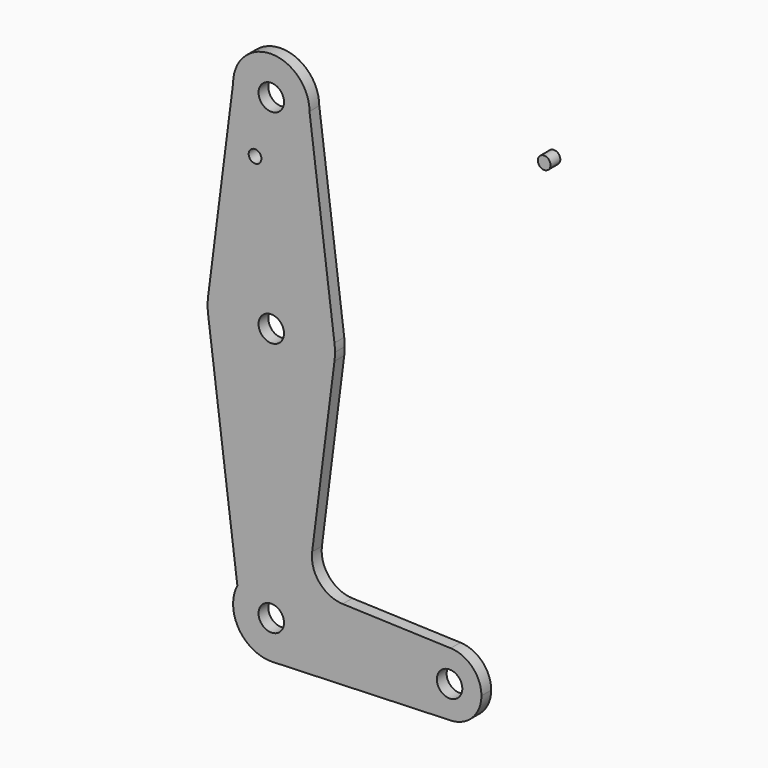
from build123d import *

# Parameters (mm, degrees)
F0_R     = 3.175
F0_R_2   = 1.5875
F1_DEPTH = 3.048


with BuildPart() as f1:
    # F0 (on Front) → F1 (new body)
    with BuildSketch(Plane.XZ):
        with BuildLine():
            ThreePointArc((-9.525, 114.3), (0, 104.775), (9.525, 114.3))
            ThreePointArc((9.525, 114.3), (0, 123.825), (-9.525, 114.3))
        make_face()
        with Locations((0, 114.3)):
            Circle(F0_R, mode=Mode.SUBTRACT)
        with BuildLine():
            Line((15.747457, 65.508289), (9.525, 114.3))
            ThreePointArc((9.525, 114.3), (0, 104.775), (-9.525, 114.3))
            Line((-9.525, 114.3), (-15.747457, 65.508289))
            ThreePointArc((-15.747457, 65.508289), (0, 79.375), (15.747457, 65.508289))
        make_face()
        with Locations((-4.054705, 100.0252)):
            Circle(F0_R_2, mode=Mode.SUBTRACT)
        with BuildLine():
            ThreePointArc((15.875, 63.5), (15.843082, 64.506168), (15.747457, 65.508289))
            ThreePointArc((15.747457, 65.508289), (0, 79.375), (-15.747457, 65.508289))
            ThreePointArc((-15.747457, 65.508289), (-15.875, 63.5), (-15.747457, 61.491711))
            ThreePointArc((-15.747457, 61.491711), (0, 47.625), (15.747457, 61.491711))
            ThreePointArc((15.747457, 61.491711), (15.843082, 62.493832), (15.875, 63.5))
        make_face()
        with Locations((0, 63.5)):
            Circle(F0_R, mode=Mode.SUBTRACT)
        with BuildLine():
            ThreePointArc((15.747457, 61.491711), (0, 47.625), (-15.747457, 61.491711))
            Line((-15.747457, 61.491711), (-8.462807, 4.371101))
            ThreePointArc((-8.462807, 4.371101), (2.249154, 9.255643), (9.525, 0))
            ThreePointArc((9.525, 0), (6.97129, -6.490511), (0.67949, -9.500732))
            Line((0.67949, -9.500732), (44.45, -7.9375))
            ThreePointArc((44.45, -7.9375), (36.513756, 0.141225), (44.732405, 7.932475))
            Line((44.732405, 7.932475), (17.784333, 8.891857))
            ThreePointArc((17.784333, 8.891857), (12.008013, 11.68998), (10.180863, 17.842775))
            Line((10.180863, 17.842775), (15.747457, 61.491711))
        make_face()
        with BuildLine():
            ThreePointArc((9.525, 0), (2.249154, 9.255643), (-8.462807, 4.371101))
            ThreePointArc((-8.462807, 4.371101), (-8.13512, -4.954336), (0, -9.525))
            Line((0, -9.525), (0.67949, -9.500732))
            ThreePointArc((0.67949, -9.500732), (6.97129, -6.490511), (9.525, 0))
        make_face()
        Circle(F0_R, mode=Mode.SUBTRACT)
        with BuildLine():
            Line((0.67949, -9.500732), (0, -9.525))
            ThreePointArc((0, -9.525), (0.339962, -9.518931), (0.67949, -9.500732))
        make_face()
        with BuildLine():
            ThreePointArc((52.3875, 0), (50.161633, 5.51191), (44.732405, 7.932475))
            ThreePointArc((44.732405, 7.932475), (36.513756, 0.141225), (44.45, -7.9375))
            ThreePointArc((44.45, -7.9375), (50.06266, -5.61266), (52.3875, 0))
        make_face()
        with Locations((44.45, 0)):
            Circle(F0_R, mode=Mode.SUBTRACT)
        with Locations((68.035126, 122.055277)):
            Circle(F0_R_2)
    extrude(amount=F1_DEPTH)


solid = f1.part
